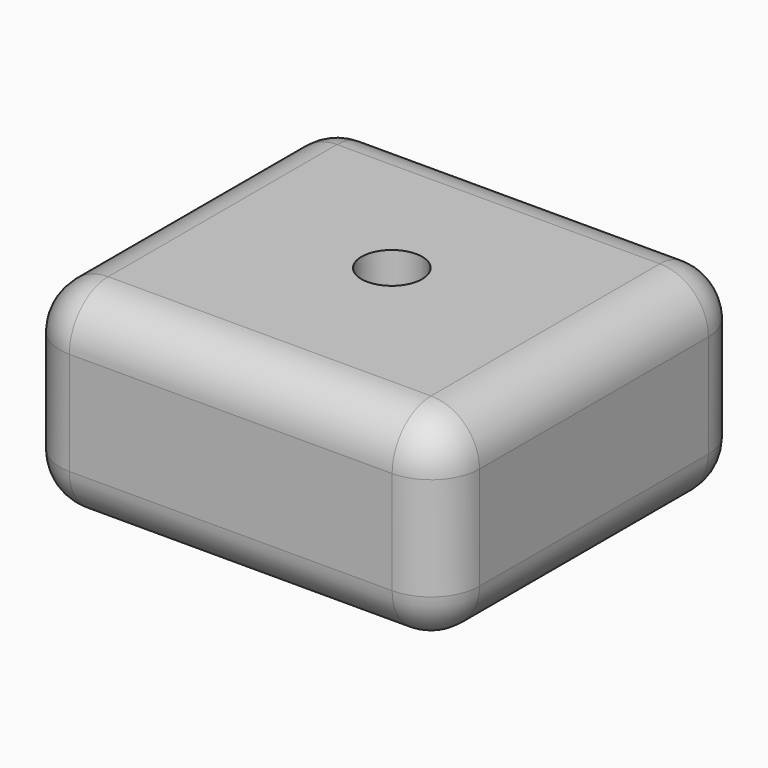
from build123d import *

# Parameters (mm, degrees)
F0_W = 43.9448170364
F0_H = 40.1015970856
F3_R = 5.08
F5_D = 6.35


with BuildPart() as f2:
    # F2: sweep along a path in F1
    with BuildLine(Plane.XZ) as f2_path:
        Line((0, 0), (0, 20.9540724754))
    # F0 (on Top) → F2 (sweep)
    with BuildSketch(Plane.XY):
        with Locations((-5.7449191809, 4.2037246749)):
            Rectangle(F0_W, F0_H)
    sweep(path=f2_path.line)

    # F3
    f3_edges = [f2.edges().sort_by_distance(p)[0] for p in [
        (-27.717328, 4.203725, 20.954072),
        (16.227489, 4.203725, 20.954072),
        (-5.744919, 24.254523, 20.954072),
        (-5.744919, -15.847074, 20.954072),
        (16.227489, -15.847074, 10.477036),
        (-27.717328, -15.847074, 10.477036),
        (-27.717328, 24.254523, 10.477036),
        (16.227489, 24.254523, 10.477036),
        (-5.744919, 24.254523, 0),
        (-27.717328, 4.203725, 0),
        (-5.744919, -15.847074, 0),
        (16.227489, 4.203725, 0),
    ]]
    fillet(f3_edges, radius=F3_R)

    # F5 (through all)
    with Locations(Plane.XY.offset(20.9540724754)):
        with Locations((-5.5084819905, 4.9320813268)):
            Hole(F5_D / 2)


solid = f2.part
